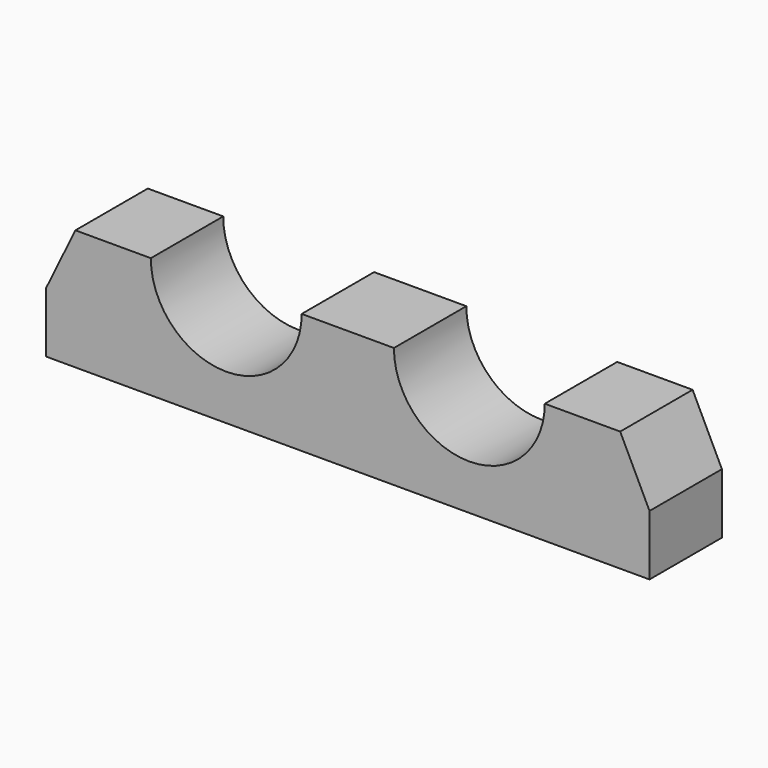
from build123d import *

# Parameters (mm, degrees)
F1_DEPTH = 15


with BuildPart() as f1:
    # F0 (on Front) → F1 (new body)
    with BuildSketch(Plane.XZ):
        with BuildLine():
            Line((-19.085956, 10), (-19.085956, 0))
            Line((-19.085956, 0), (80.914044, 0))
            Line((80.914044, 0), (80.914044, 10))
            Line((80.914044, 10), (76.056394, 20))
            Line((76.056394, 20), (63.556394, 20))
            ThreePointArc((63.556394, 20), (51.056394, 7.5), (38.556394, 20))
            Line((38.556394, 20), (23.271694, 20))
            ThreePointArc((23.271694, 20), (10.771694, 7.5), (-1.728306, 20))
            Line((-1.728306, 20), (-14.228306, 20))
            Line((-14.228306, 20), (-19.085956, 10))
        make_face()
    extrude(amount=F1_DEPTH)


solid = f1.part
